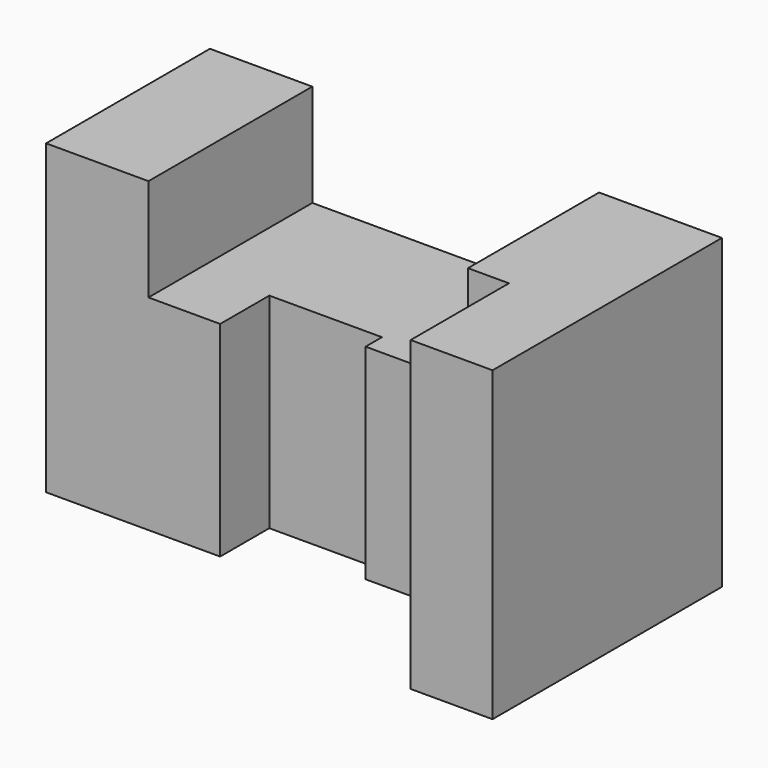
from build123d import *

# Parameters (mm, degrees)
F0_W     = 125
F0_H     = 75
F1_DEPTH = 70
F2_W     = 70
F2_H     = 25
F3_DEPTH = 70.001
F4_W     = 105
F4_H     = 75
F5_DEPTH = 20
F6_W     = 62.5
F6_H     = 75
F7_DEPTH = 10
F8_W     = 27.5
F8_H     = 50
F9_DEPTH = 5


with BuildPart() as f1:
    # F0 (on Front) → F1 (new body)
    with BuildSketch(Plane.XZ):
        with Locations((62.5, 37.5)):
            Rectangle(F0_W, F0_H)
    extrude(amount=F1_DEPTH)

    # F2 (on face) → F3 (cut, through all)
    with BuildSketch(Plane.XZ.offset(70)):
        with Locations((60, 62.5)):
            Rectangle(F2_W, F2_H)
    extrude(amount=-F3_DEPTH, mode=Mode.SUBTRACT)

    # F4 (on face) → F5 (cut)
    with BuildSketch(Plane.XZ.offset(70)):
        with Locations((52.5, 37.5)):
            Rectangle(F4_W, F4_H)
    extrude(amount=-F5_DEPTH, mode=Mode.SUBTRACT)

    # F6 (on face) → F7 (cut)
    with BuildSketch(Plane.XZ.offset(50)):
        with Locations((73.75, 37.5)):
            Rectangle(F6_W, F6_H)
    extrude(amount=-F7_DEPTH, mode=Mode.SUBTRACT)

    # F8 (on face) → F9 (cut)
    with BuildSketch(Plane.XZ.offset(40)):
        with Locations((56.25, 25)):
            Rectangle(F8_W, F8_H)
    extrude(amount=-F9_DEPTH, mode=Mode.SUBTRACT)


solid = f1.part
